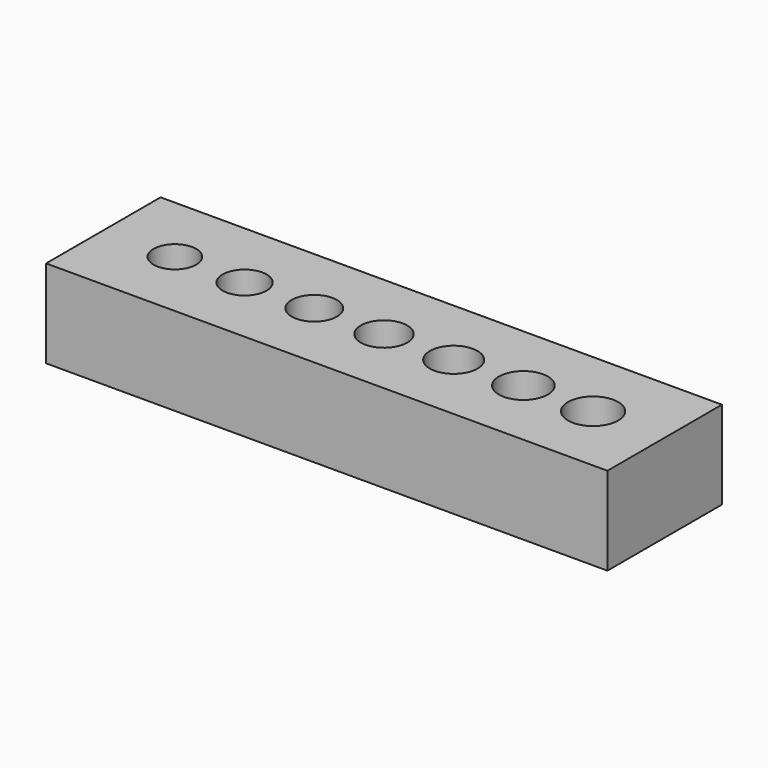
from build123d import *

# Parameters (mm, degrees)
F0_W     = 115.062
F0_H     = 29.337
F0_R     = 4.3815
F0_R_2   = 4.5085
F0_R_3   = 4.6355
F0_R_4   = 4.7625
F0_R_5   = 4.8895
F0_R_6   = 5.0165
F0_R_7   = 5.1435
F1_DEPTH = 18.034


with BuildPart() as f1:
    # F0 (on Top) → F1 (new body)
    with BuildSketch(Plane.XY):
        Rectangle(F0_W, F0_H)
        with Locations((-42.8625, 0)):
            Circle(F0_R, mode=Mode.SUBTRACT)
        with Locations((-28.575, 0)):
            Circle(F0_R_2, mode=Mode.SUBTRACT)
        with Locations((-14.2875, 0)):
            Circle(F0_R_3, mode=Mode.SUBTRACT)
        Circle(F0_R_4, mode=Mode.SUBTRACT)
        with Locations((14.2875, 0)):
            Circle(F0_R_5, mode=Mode.SUBTRACT)
        with Locations((28.575, 0)):
            Circle(F0_R_6, mode=Mode.SUBTRACT)
        with Locations((42.8625, 0)):
            Circle(F0_R_7, mode=Mode.SUBTRACT)
    extrude(amount=F1_DEPTH)


solid = f1.part
